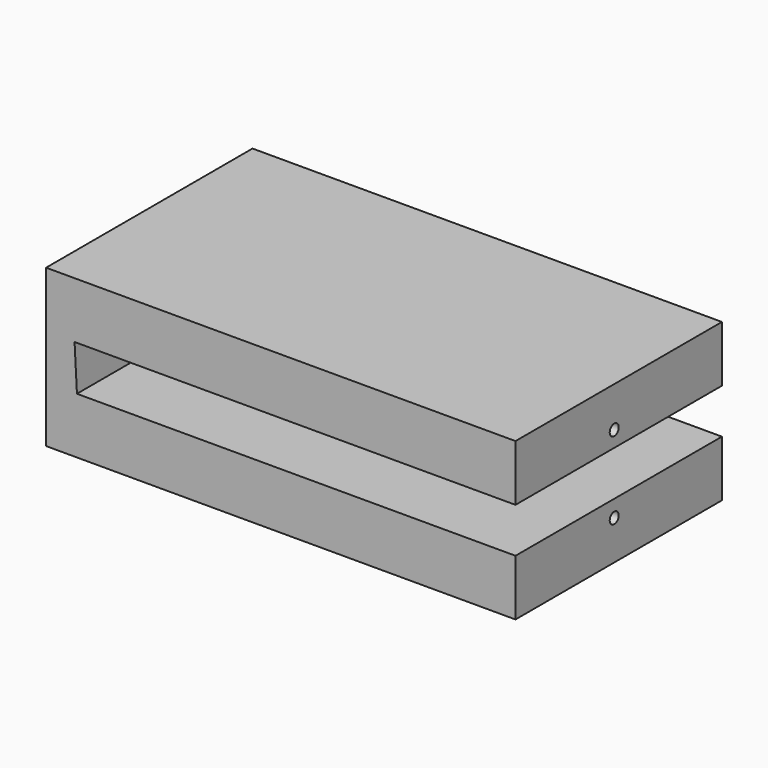
from build123d import *

# Parameters (mm, degrees)
F1_DEPTH = 23
F2_R     = 0.5
F3_DEPTH = 6


with BuildPart() as f1:
    # F0 (on Front) → F1 (new body)
    with BuildSketch(Plane.XZ):
        Polygon((0, 14), (-41.842094, 14), (-41.842094, 0), (0, 0), (0, 5), (-39.091877, 5), (-39.302094, 8.994472), (0, 8.994472), align=None)
    extrude(amount=F1_DEPTH)

    # F2 (on Right) → F3 (cut)
    with BuildSketch(Plane.YZ):
        with Locations((-12, 10.408686)):
            Circle(F2_R)
        with Locations((-12, 3.5)):
            Circle(F2_R)
    extrude(amount=-F3_DEPTH, mode=Mode.SUBTRACT)


solid = f1.part
